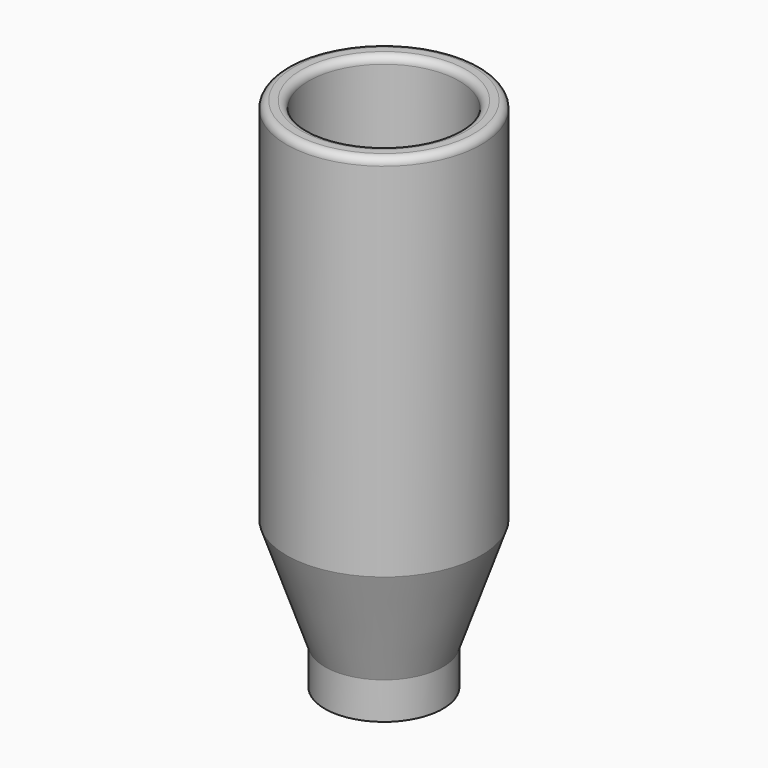
from build123d import *

# Parameters (mm, degrees)
F2_R = 1
F4_D = 5.1


with BuildPart() as f1:
    # F0 (on Front) → F1 (revolve)
    with BuildSketch(Plane.XZ):
        Polygon((-10.2, 61.3408794351), (-13.2, 61.3408794351), (-13.2, 11.3408794351), (-8, -3.6591205649), (-8, -8.6591205649), (0, -8.6591205649), (0, 5.3408794351), (-5.8538794215, 5.3408794351), (-7.4, 11.3408794351), (-10.2, 11.3408794351), align=None)
    revolve(axis=Axis((0, 0, 2.0173949058), (0, 0, -1)))

    # F2
    f2_edges = [f1.edges().sort_by_distance(p)[0] for p in [
        (13.2, 0, 61.340879),
        (10.2, 0, 61.340879),
    ]]
    fillet(f2_edges, radius=F2_R)

    # F4 (through all)
    with Locations(Plane(origin=(0, 0, -8.6591205649), x_dir=(1, 0, 0), z_dir=(0, 0, -1))):
        with Locations((0, 0)):
            Hole(F4_D / 2)


solid = f1.part
